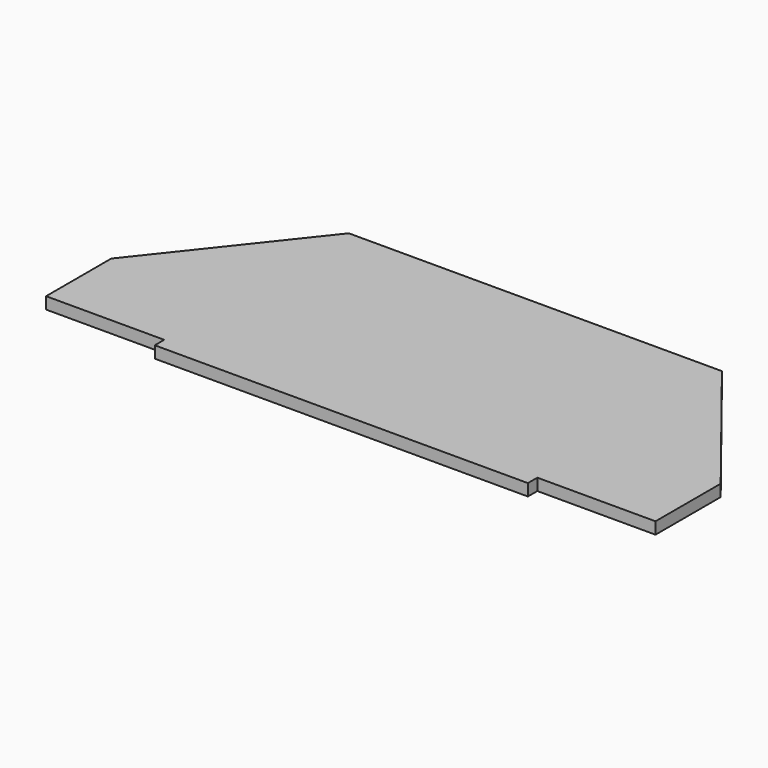
from build123d import *

# Parameters (mm, degrees)
F1_DEPTH = 19
F2_W     = 190
F2_H     = 19
F3_DEPTH = 19
F4_W     = 190
F4_H     = 19
F5_DEPTH = 19


with BuildPart() as f1:
    # F0 (on Top) → F1 (new body)
    with BuildSketch(Plane.XY):
        Polygon((0, 150), (0, 0), (980, 0), (980, 150), (790, 390), (190, 390), align=None)
    extrude(amount=F1_DEPTH)

    # F2 (on face) → F3 (cut)
    with BuildSketch(Plane.XY.offset(19)):
        with Locations((95, 9.5)):
            Rectangle(F2_W, F2_H)
    extrude(amount=-F3_DEPTH, mode=Mode.SUBTRACT)

    # F4 (on face) → F5 (cut)
    with BuildSketch(Plane.XY.offset(19)):
        with Locations((885, 9.5)):
            Rectangle(F4_W, F4_H)
    extrude(amount=-F5_DEPTH, mode=Mode.SUBTRACT)


solid = f1.part
